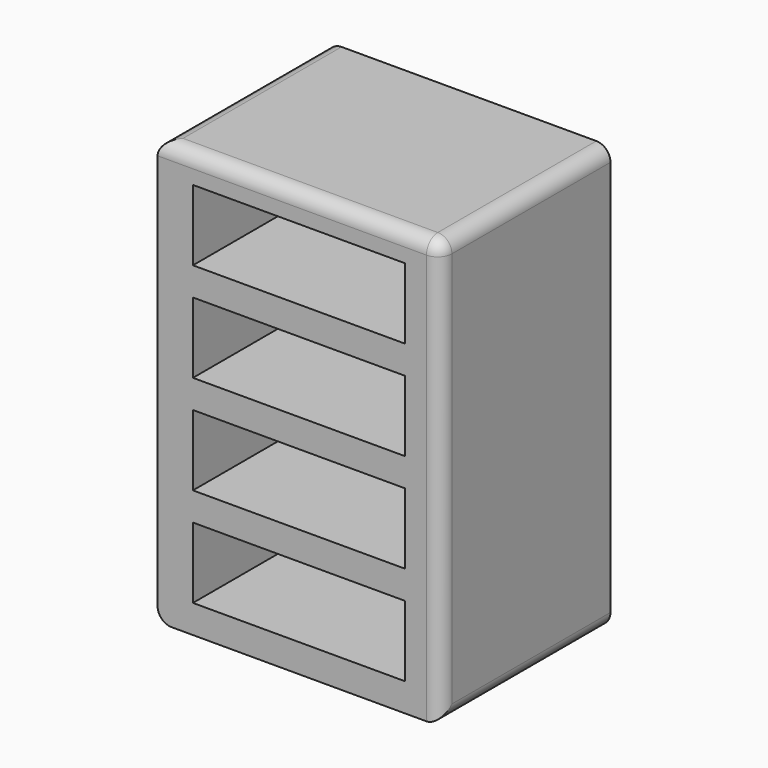
from build123d import *

# Parameters (mm, degrees)
F0_W     = 101.6
F0_H     = 152.4
F1_DEPTH = 76.2
F2_W     = 76.2
F2_H     = 25.4
F3_DEPTH = 50.8
F4_R     = 5.08


with BuildPart() as f1:
    # F0 (on Front) → F1 (new body)
    with BuildSketch(Plane.XZ):
        with Locations((34.750886, -17.486643)):
            Rectangle(F0_W, F0_H)
    extrude(amount=F1_DEPTH)

    # F2 (on face) → F3 (cut)
    with BuildSketch(Plane.XZ.offset(76.2)):
        with Locations((34.750886, 35.853357)):
            Rectangle(F2_W, F2_H)
        with Locations((34.750886, 0.293357)):
            Rectangle(F2_W, F2_H)
        with Locations((34.750886, -35.266643)):
            Rectangle(F2_W, F2_H)
        with Locations((34.750886, -70.826643)):
            Rectangle(F2_W, F2_H)
    extrude(amount=-F3_DEPTH, mode=Mode.SUBTRACT)

    # F4
    f4_edges = [f1.edges().sort_by_distance(p)[0] for p in [
        (34.750886, -76.2, 58.713357),
        (85.550886, -38.1, 58.713357),
        (85.550886, -38.1, -93.686643),
        (-16.049114, -38.1, -93.686643),
        (-16.049114, -38.1, 58.713357),
        (85.550886, -76.2, -17.486643),
    ]]
    fillet(f4_edges, radius=F4_R)


solid = f1.part
